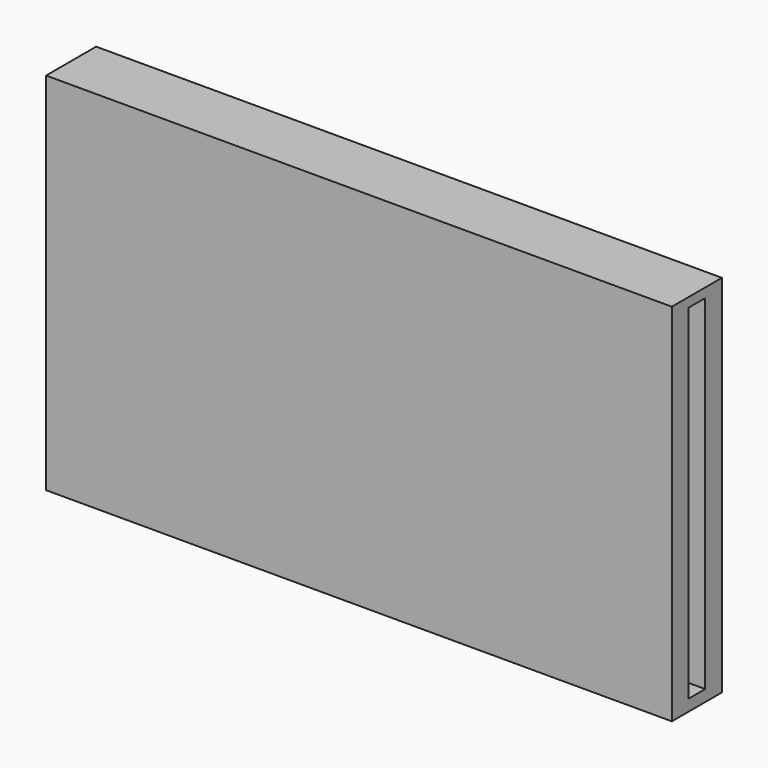
from build123d import *

# Parameters (mm, degrees)
F0_W     = 300
F0_H     = 175
F1_DEPTH = 30
F2_W     = 10
F2_H     = 165
F3_DEPTH = 40


with BuildPart() as f1:
    # F0 (on Front) → F1 (new body)
    with BuildSketch(Plane.XZ):
        Rectangle(F0_W, F0_H)
    extrude(amount=F1_DEPTH)

    # F2 (on face) → F3 (cut)
    with BuildSketch(Plane.YZ.offset(150)):
        with Locations((-15, 0.5)):
            Rectangle(F2_W, F2_H)
    extrude(amount=-F3_DEPTH, mode=Mode.SUBTRACT)


solid = f1.part
